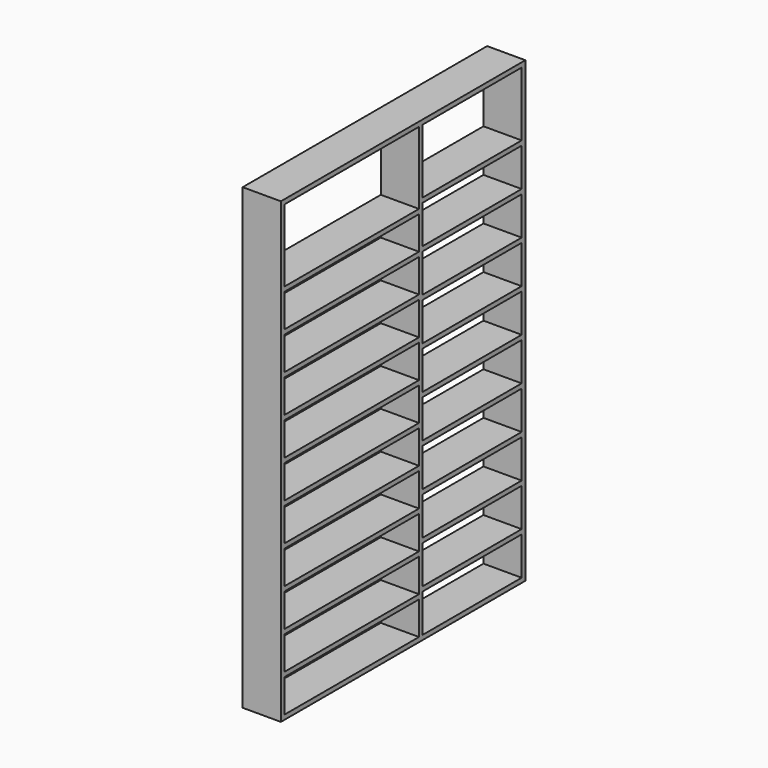
from build123d import *

# Parameters (mm, degrees)
F0_W     = 1200
F0_H     = 1800
F1_DEPTH = 150
F2_W     = 1164
F2_H     = 1764
F3_DEPTH = 150
F4_W     = 150
F4_H     = 18
F5_DEPTH = 1764
F6_W     = 150
F6_H     = 18
F7_DEPTH = 660
F8_W     = 150
F8_H     = 18
F9_DEPTH = 486


with BuildPart() as f1:
    # F0 (on Right) → F1 (new body)
    with BuildSketch(Plane.YZ):
        with Locations((600, 900)):
            Rectangle(F0_W, F0_H)
    extrude(amount=F1_DEPTH)

    # F2 (on face) → F3 (cut)
    with BuildSketch(Plane.YZ.offset(150)):
        with Locations((600, 900)):
            Rectangle(F2_W, F2_H)
    extrude(amount=-F3_DEPTH, mode=Mode.SUBTRACT)

    # F4 (on face) → F5 (join)
    with BuildSketch(Plane.XY.offset(18)):
        with Locations((75, 687)):
            Rectangle(F4_W, F4_H)
    extrude(amount=F5_DEPTH)

    # F6 (on face) → F7 (join)
    with BuildSketch(Plane.XZ.offset(-678)):
        with Locations((75, 157)):
            Rectangle(F6_W, F6_H)
        with Locations((75, 305)):
            Rectangle(F6_W, F6_H)
        with Locations((75, 453)):
            Rectangle(F6_W, F6_H)
        with Locations((75, 601)):
            Rectangle(F6_W, F6_H)
        with Locations((75, 749)):
            Rectangle(F6_W, F6_H)
        with Locations((75, 897)):
            Rectangle(F6_W, F6_H)
        with Locations((75, 1045)):
            Rectangle(F6_W, F6_H)
        with Locations((75, 1193)):
            Rectangle(F6_W, F6_H)
        with Locations((75, 1341)):
            Rectangle(F6_W, F6_H)
        with Locations((75, 1489)):
            Rectangle(F6_W, F6_H)
    extrude(amount=F7_DEPTH)

    # F8 (on face) → F9 (join)
    with BuildSketch(Plane.XZ.offset(-1182)):
        with Locations((75, 177)):
            Rectangle(F8_W, F8_H)
        with Locations((75, 345)):
            Rectangle(F8_W, F8_H)
        with Locations((75, 513)):
            Rectangle(F8_W, F8_H)
        with Locations((75, 681)):
            Rectangle(F8_W, F8_H)
        with Locations((75, 849)):
            Rectangle(F8_W, F8_H)
        with Locations((75, 1017)):
            Rectangle(F8_W, F8_H)
        with Locations((75, 1185)):
            Rectangle(F8_W, F8_H)
        with Locations((75, 1353)):
            Rectangle(F8_W, F8_H)
        with Locations((75, 1521)):
            Rectangle(F8_W, F8_H)
    extrude(amount=F9_DEPTH)


solid = f1.part
